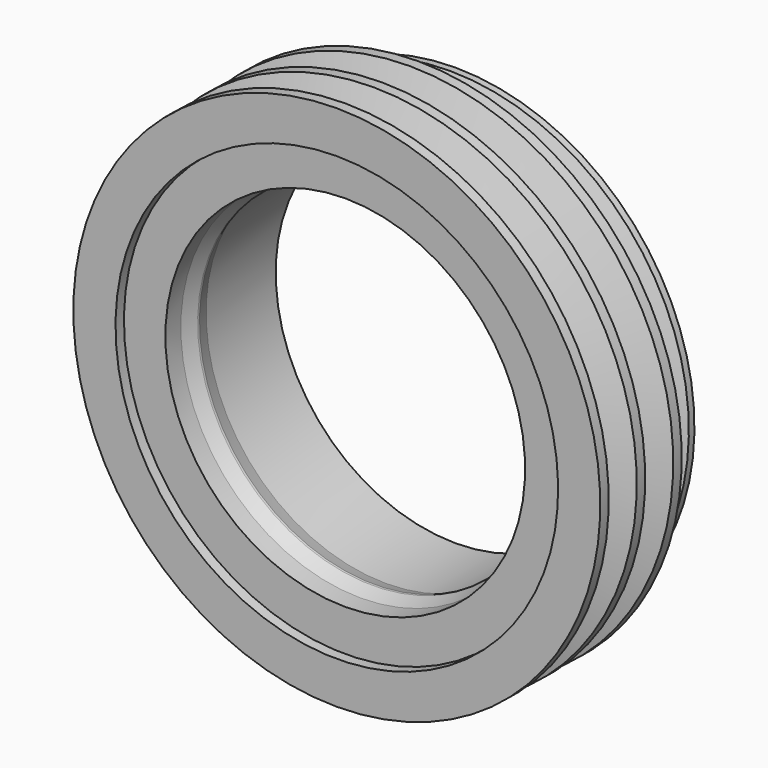
from build123d import *


with BuildPart() as f1:
    # F0 (on Right) → F1 (revolve)
    with BuildSketch(Plane.YZ):
        with BuildLine():
            Line((3, 63), (3, 51.2))
            Line((3, 51.2), (8.5, 51.2))
            Line((8.5, 51.2), (12.672783, 49.755051))
            ThreePointArc((12.672783, 49.755051), (13, 49.7), (13.327217, 49.755051))
            Line((13.327217, 49.755051), (17.5, 51.2))
            Line((17.5, 51.2), (42.255857, 51.2))
            Line((42.255857, 51.2), (42.255857, 68))
            Line((42.255857, 68), (40.255857, 68))
            Line((40.255857, 68), (35.888214, 56))
            Line((35.888214, 56), (34.638214, 56))
            Line((34.638214, 56), (30.270571, 68))
            Line((30.270571, 68), (28.970571, 68))
            Line((28.970571, 68), (28.970571, 75))
            Line((28.970571, 75), (25.970571, 75))
            Line((25.970571, 75), (21.602928, 63))
            Line((21.602928, 63), (20.352928, 63))
            Line((20.352928, 63), (15.985286, 75))
            Line((15.985286, 75), (12.985286, 75))
            Line((12.985286, 75), (8.617643, 63))
            Line((8.617643, 63), (7.367643, 63))
            Line((7.367643, 63), (3, 75))
            Line((3, 75), (0, 75))
            Line((0, 75), (0, 63))
            Line((0, 63), (3, 63))
        make_face()
    revolve(axis=Axis((0, 21.127928, 0), (0, 1, 0)))


solid = f1.part
